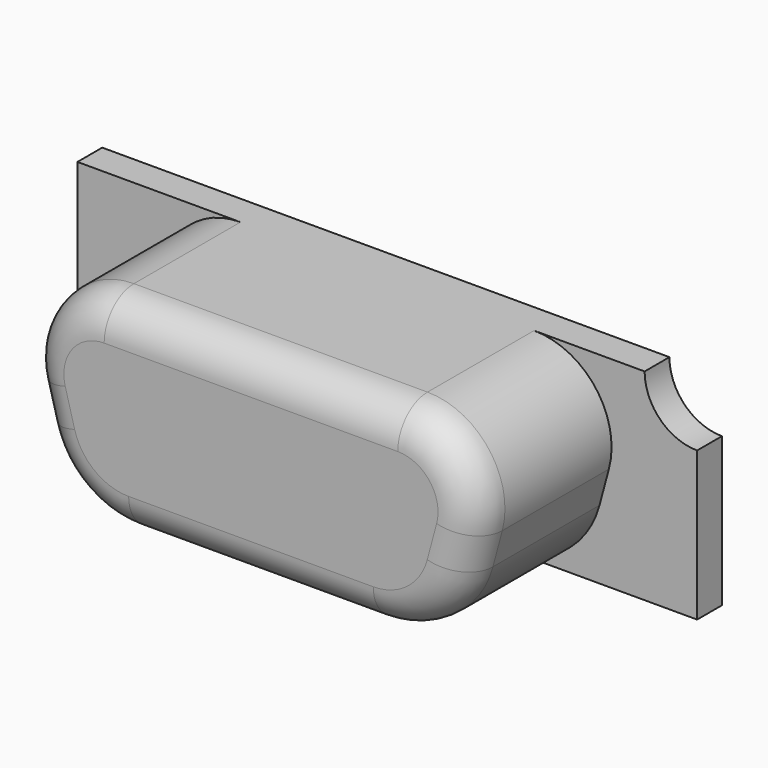
from build123d import *

# Parameters (mm, degrees)
F0_W      = 20
F0_H      = 8
F1_DEPTH  = 1
F3_DEPTH  = 5.5
F4_R      = 2.5
F5_R      = 3.0047096082
F6_R      = 1.2
F7_W      = 20
F7_H      = 1.5
F8_DEPTH  = 25
F9_R      = 1.6945445142
F10_DEPTH = 25


with BuildPart() as f1:
    # F0 (on Front) → F1 (new body)
    with BuildSketch(Plane.XZ):
        with Locations((-0.9586364031, -3.9746239682)):
            Rectangle(F0_W, F0_H)
    extrude(amount=F1_DEPTH)

    # F2 (on face) → F3 (join)
    with BuildSketch(Plane.XZ.offset(1)):
        Polygon((7.0413635969, 0.0253760318), (-8.9586364031, 0.0253760318), (-7.2086364031, -6.4746239682), (5.2913635969, -6.4746239682), align=None)
    extrude(amount=F3_DEPTH)

    # F4
    f4_edges = [f1.edges().sort_by_distance(p)[0] for p in [
        (7.041364, -3.75, 0.025376),
        (-8.958636, -3.75, 0.025376),
    ]]
    fillet(f4_edges, radius=F4_R)

    # F5
    f5_edges = [f1.edges().sort_by_distance(p)[0] for p in [
        (5.291364, -3.75, -6.474624),
        (-7.208636, -3.75, -6.474624),
    ]]
    fillet(f5_edges, radius=F5_R)

    # F6
    f6_edges = [f1.edges().sort_by_distance(p)[0] for p in [
        (6.04166, -6.5, -3.687808),
        (4.816347, -6.5, -5.854804),
        (5.763558, -6.5, -0.953906),
        (-0.958636, -6.5, -6.474624),
        (-0.958636, -6.5, 0.025376),
        (-6.73362, -6.5, -5.854804),
        (-7.680831, -6.5, -0.953906),
        (-7.958933, -6.5, -3.687808),
    ]]
    fillet(f6_edges, radius=F6_R)

    # F7 (on face) → F8 (cut)
    with BuildSketch(Plane.XZ.offset(1)):
        with Locations((-0.9586364031, -7.2246239682)):
            Rectangle(F7_W, F7_H)
    extrude(amount=-F8_DEPTH, mode=Mode.SUBTRACT)

    # F9 (on face) → F10 (cut)
    with BuildSketch(Plane.XZ.offset(1)):
        with Locations((9.0413635969, 0.0253760318)):
            Circle(F9_R)
    extrude(amount=-F10_DEPTH, mode=Mode.SUBTRACT)


solid = f1.part
